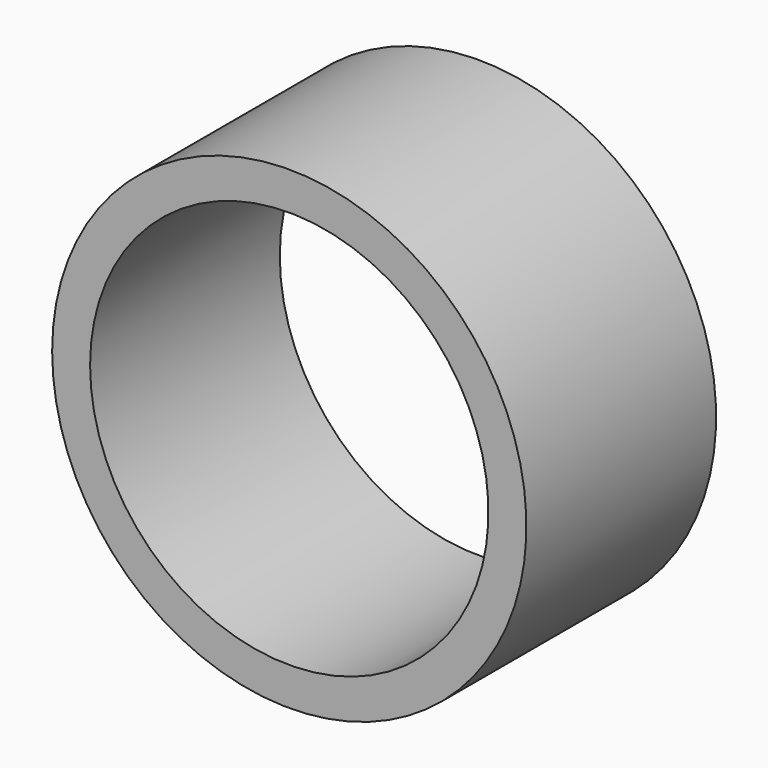
from build123d import *

# Parameters (mm, degrees)
CYLINDER015_R          = 21
CYLINDER015_DEPTH      = 25
CYLINDER016_R          = 25
CYLINDER016_DEPTH      = 25
CUT004_ROLL_ANGLE      = 90
CUT004_PITCH_ANGLE     = -7e-06
CUT004_PLACEMENT_ANGLE = -179.999993


with BuildPart() as cylinder015:
    # Cylinder015 → Cylinder015 (new body)
    with BuildSketch(Plane.XY):
        Circle(CYLINDER015_R)
    extrude(amount=CYLINDER015_DEPTH)


with BuildPart() as cut004:
    # Cylinder016 → Cylinder016 (new body)
    with BuildSketch(Plane.XY):
        Circle(CYLINDER016_R)
    extrude(amount=CYLINDER016_DEPTH)

    # Cut004: cut Cylinder015
    add(cylinder015.part, mode=Mode.SUBTRACT)


with BuildPart() as cut004_1:
    # Cut004 roll: moved
    add(cut004.part.rotate(Axis((0, 0, 0), (1, 0, 0)), CUT004_ROLL_ANGLE))


with BuildPart() as cut004_2:
    # Cut004 pitch: moved
    add(cut004_1.part.rotate(Axis((0, 0, 0), (0, 1, 0)), CUT004_PITCH_ANGLE))


with BuildPart() as cut004_3:
    # Cut004 placement: moved
    add(cut004_2.part.moved(Location((22.3, -76, -12))).rotate(Axis((22.3, -76, -12), (0, 0, 1)), CUT004_PLACEMENT_ANGLE))


solid = cut004_3.part
